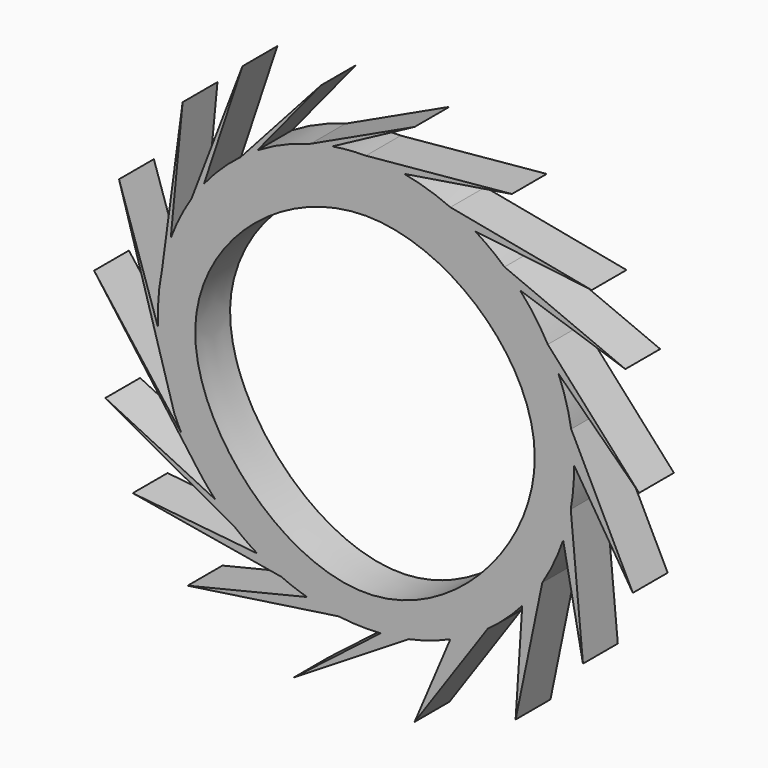
from build123d import *

# Parameters (mm, degrees)
F1_DEPTH = 12.7
F3_DEPTH = 25.4


with BuildPart() as f1:
    # F0 (on Front) → F1 (new body)
    with BuildSketch(Plane.XZ):
        with BuildLine():
            Line((14.1956806183, 72.685867548), (-16.1233143312, 58.504369939))
            ThreePointArc((-16.1233143312, 58.504369939), (-24.1372805025, 55.6786696763), (-31.677979842, 51.7612611913))
            Line((-31.677979842, 51.7612611913), (-13.0823301151, 74.5044052601))
            Line((-13.0823301151, 74.5044052601), (-36.4863287749, 48.4919620093))
            ThreePointArc((-36.4863287749, 48.4919620093), (-42.174569089, 43.635172615), (-47.2221327461, 38.1155184392))
            Line((-47.2221327461, 38.1155184392), (-35.9958522022, 71.9584524632))
            Line((-35.9958522022, 71.9584524632), (-50.8878393335, 33.0628246669))
            ThreePointArc((-50.8878393335, 33.0628246669), (-54.2355910398, 27.2254151767), (-56.9164614127, 21.0532417275))
            Line((-56.9164614127, 21.0532417275), (-53.4537769854, 57.0464842021))
            Line((-53.4537769854, 57.0464842021), (-59.4475901172, 12.1945314072))
            ThreePointArc((-59.4475901172, 12.1945314072), (-60.5145613182, 4.5508719434), (-60.6027765322, -3.1663928323))
            Line((-60.6027765322, -3.1663928323), (-72.0028206706, 31.2233008444))
            Line((-72.0028206706, 31.2233008444), (-55.871643126, -23.6871708184))
            ThreePointArc((-55.871643126, -23.6871708184), (-54.8874650861, -25.8860723827), (-53.8167873263, -28.0441788764))
            Line((-53.8167873263, -28.0441788764), (-79.2769566178, 5.400122609))
            Line((-79.2769566178, 5.400122609), (-49.1459707846, -35.6005073365))
            Line((-49.1459707846, -35.6005073365), (-48.6531234879, -36.2711475122))
            ThreePointArc((-48.6531234879, -36.2711475122), (-46.3871917294, -39.1273690714), (-43.9538296695, -41.8423639912))
            Line((-43.9538296695, -41.8423639912), (-76.0035961866, -26.242364198))
            Line((-76.0035961866, -26.242364198), (-38.2276596565, -47.1313972227))
            ThreePointArc((-38.2276596565, -47.1313972227), (-35.04313087, -49.5449447049), (-31.7066726719, -51.7436901956))
            Line((-31.7066726719, -51.7436901956), (-68.0020451546, -48.0647683144))
            Line((-68.0020451546, -48.0647683144), (-24.6669585423, -55.4460433508))
            ThreePointArc((-24.6669585423, -55.4460433508), (-20.9626144697, -56.9499022087), (-17.1672884351, -58.2065870394))
            Line((-17.1672884351, -58.2065870394), (-51.998950541, -66.6138157248))
            Line((-51.998950541, -66.6138157248), (-7.91081853, -60.1676118619))
            ThreePointArc((-7.91081853, -60.1676118619), (-1.8331594251, -60.657745536), (4.2630059653, -60.5355213666))
            Line((4.2630059653, -60.5355213666), (-20.9776671322, -80.070964992))
            Line((-20.9776671322, -80.070964992), (12.5156716461, -59.380809444))
            ThreePointArc((12.5156716461, -59.380809444), (18.6675310426, -57.7429290195), (24.6139559608, -55.4695929221))
            Line((24.6139559608, -55.4695929221), (14.1956806183, -80.070964992))
            Line((14.1956806183, -80.070964992), (35.5296064347, -49.197252297))
            ThreePointArc((35.5296064347, -49.197252297), (40.8111137132, -44.9129776843), (45.5800962078, -40.0646651885))
            Line((45.5800962078, -40.0646651885), (43.6559207737, -69.8871687055))
            Line((43.6559207737, -69.8871687055), (51.4325498421, -32.2089332907))
            ThreePointArc((51.4325498421, -32.2089332907), (54.8573982061, -25.9497288819), (57.5239385722, -19.3318146619))
            Line((57.5239385722, -19.3318146619), (63.2960870862, -49.1558872163))
            Line((63.2960870862, -49.1558872163), (59.737413085, -10.6847575962))
            ThreePointArc((59.737413085, -10.6847575962), (60.4886248495, -4.8835264714), (60.6777969485, 0.9630807153))
            Line((60.6777969485, 0.9630807153), (77.8443515301, -26.242364198))
            Line((77.8443515301, -26.242364198), (59.8625595644, 9.9597454474))
            ThreePointArc((59.8625595644, 9.9597454474), (58.3831894637, 16.5567434911), (56.1791835984, 22.9482438805))
            Line((56.1791835984, 22.9482438805), (79.6628892422, 0))
            Line((79.6628892422, 0), (53.0447443432, 29.4784271043))
            ThreePointArc((53.0447443432, 29.4784271043), (49.3348326812, 35.338319871), (44.9805353483, 40.7366420653))
            Line((44.9805353483, 40.7366420653), (75.6621137261, 30.4958876222))
            Line((75.6621137261, 30.4958876222), (40.4193028999, 45.2659090273))
            ThreePointArc((40.4193028999, 45.2659090273), (36.2781471273, 48.6479044563), (31.8553829244, 51.6522714478))
            Line((31.8553829244, 51.6522714478), (65.8420324326, 47.5901030004))
            Line((65.8420324326, 47.5901030004), (24.6360375773, 55.4597892123))
            ThreePointArc((24.6360375773, 55.4597892123), (18.0049262379, 57.952956768), (11.1284468002, 59.6563512025))
            Line((11.1284468002, 59.6563512025), (42.5648018718, 64.6843239665))
            Line((42.5648018718, 64.6843239665), (0, 60.6854394973))
            ThreePointArc((0, 60.6854394973), (-4.9116588, 60.4863470117), (-9.7910899563, 59.8903758917))
            Line((-9.7910899563, 59.8903758917), (14.1956806183, 72.685867548))
        make_face()
        with BuildLine():
            Line((-48.6531234879, -36.2711475122), (-49.1459707846, -35.6005073365))
            ThreePointArc((-49.1459707846, -35.6005073365), (-48.9006968222, -35.936672318), (-48.6531234879, -36.2711475122))
        make_face()
    extrude(amount=F1_DEPTH)

    # F2 (on face) → F3 (cut)
    with BuildSketch(Plane.XZ.offset(12.7)):
        with BuildLine():
            add(Edge.make_bspline(
                [(-49.7726202011, 0), (-49.2526152751, 23.8113209552), (0.1236425889, 66.7216871145), (73.7668389709, 1.6139944031), (0.1396115913, -78.6254844393), (-50.3094277913, -24.5807244903), (-49.7726202011, 0)],
                knots=[0, 0, 0, 0, 0.2463679437, 0.4920058414, 0.7456712898, 1, 1, 1, 1], degree=3))
        make_face()
    extrude(amount=-F3_DEPTH, mode=Mode.SUBTRACT)


solid = f1.part
